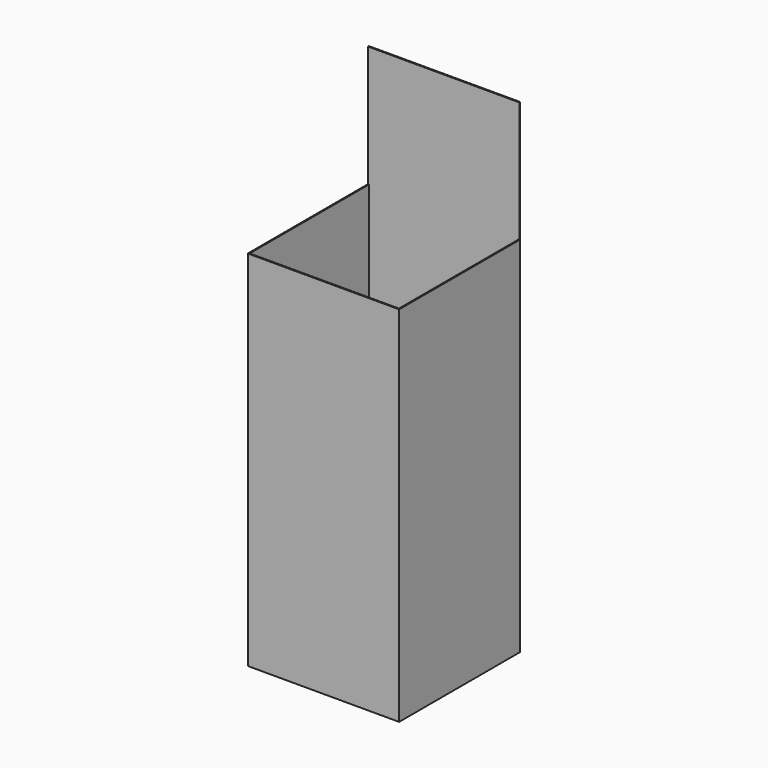
from build123d import *

# Parameters (mm, degrees)
F0_W     = 381
F0_H     = 914.4
F1_DEPTH = 190.5
F2_T     = -2.54
F3_W     = 381
F3_H     = 2.54
F4_DEPTH = 304.8


with BuildPart() as f1:
    # F0 (on Front) → F1 (new body, symmetric)
    with BuildSketch(Plane.XZ):
        Rectangle(F0_W, F0_H)
    extrude(amount=F1_DEPTH, both=True)

    # F2
    f2_openings = [f1.faces().sort_by_distance(p)[0] for p in [
        (0, 0, 457.2),
    ]]
    offset(amount=F2_T, openings=f2_openings)

    # F3 (on face) → F4 (join)
    with BuildSketch(Plane.XY.offset(457.2)):
        with Locations((0, 189.23)):
            Rectangle(F3_W, F3_H)
    extrude(amount=F4_DEPTH)


solid = f1.part
